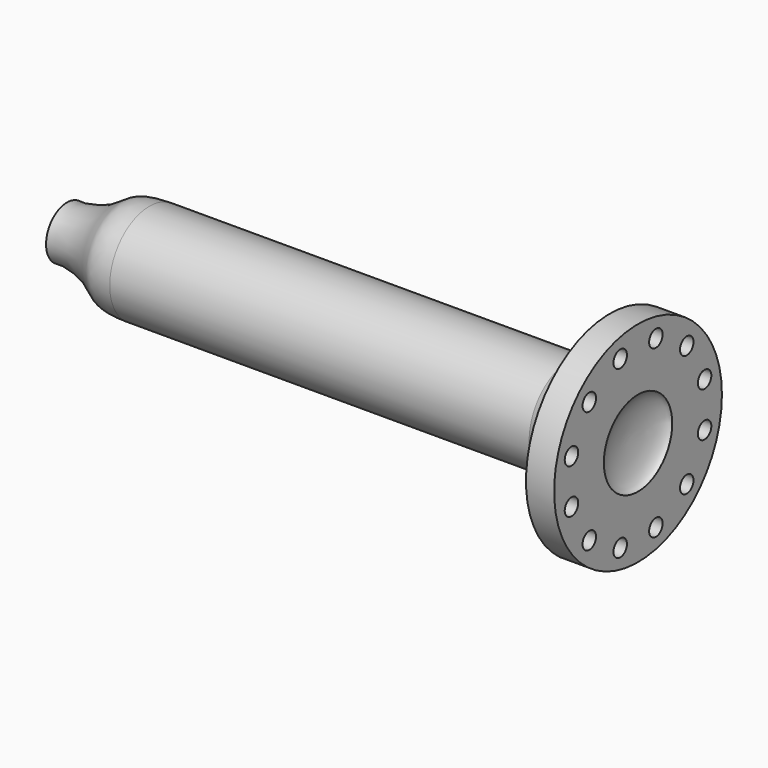
from build123d import *

# Parameters (mm, degrees)
F0_W     = 711.2
F0_H     = 84.1375
F2_W     = 44.45
F2_H     = 44.45
F3_DEPTH = 25.4
F4_R     = 14.2875
F5_DEPTH = 968.2490001


with BuildPart() as f1:
    # F0 (on Top) → F1 (revolve)
    with BuildSketch(Plane.XY):
        with BuildLine():
            Line((-355.6, -28.3585746473), (-355.6, 55.7789253527))
            add(Edge.make_bspline(
                [(-495.3, 16.0914253527), (-491.1825215885, 15.7318338139), (-479.4418370711, 14.7064851925), (-427.3573599541, 26.8287985997), (-400.0577825465, 54.9384491614), (-370.6219245107, 55.4949352575), (-355.6, 55.7789253527)],
                knots=[0, 0, 0, 0, 0.1628231526, 0.4642781518, 0.7266064691, 1, 1, 1, 1], degree=3))
            Line((-495.3, 16.0914253527), (-495.3, -28.3585746473))
            Line((-495.3, -28.3585746473), (-355.6, -28.3585746473))
        make_face()
        with Locations((0, 13.7101753527)):
            Rectangle(F0_W, F0_H)
        with BuildLine():
            Line((425.196, 82.7664253527), (355.6, 55.7789253527))
            Line((355.6, 55.7789253527), (355.6, -28.3585746473))
            Line((355.6, -28.3585746473), (451.6144843253, -28.3585746473))
            add(Edge.make_bspline(
                [(472.948, 44.1196709871), (451.6144843253, 44.1196709871), (451.6144843253, -28.3585746473)],
                knots=[0, 0, 0, 1.5707963268, 1.5707963268, 1.5707963268], degree=2, weights=[1, 0.7071067812, 1]))
            Line((472.948, 44.1196709871), (472.948, 149.4414253527))
            Line((472.948, 149.4414253527), (425.196, 149.4414253527))
            Line((425.196, 149.4414253527), (425.196, 82.7664253527))
        make_face()
    revolve(axis=Axis((-425.45, -28.3585746473, 0), (-1, 0, 0)))

    # F2 (on face) → F3 (cut)
    with BuildSketch(Plane(origin=(-495.3, 0, 0), x_dir=(0, -1, 0), z_dir=(-1, 0, 0))):
        with Locations((28.3585746473, 0)):
            Rectangle(F2_W, F2_H)
    extrude(amount=-F3_DEPTH, mode=Mode.SUBTRACT)

    # F4 (on face) → F5 (cut, through all)
    with BuildSketch(Plane.YZ.offset(472.948)):
        with Locations((-131.6315200396, 103.2729453923)):
            Circle(F4_R)
        with Locations((-66.1590961845, 141.0734669295)):
            Circle(F4_R)
        with Locations((9.4419468899, 141.0734669295)):
            Circle(F4_R)
        with Locations((74.914370745, 103.2729453923)):
            Circle(F4_R)
        with Locations((112.7148922822, 37.8005215372)):
            Circle(F4_R)
        with Locations((112.7148922822, -37.8005215372)):
            Circle(F4_R)
        with Locations((74.914370745, -103.2729453923)):
            Circle(F4_R)
        with Locations((9.4419468899, -141.0734669295)):
            Circle(F4_R)
        with Locations((-66.1590961845, -141.0734669295)):
            Circle(F4_R)
        with Locations((-131.6315200396, -103.2729453923)):
            Circle(F4_R)
        with Locations((-169.4320415768, -37.8005215372)):
            Circle(F4_R)
        with Locations((-169.4320415768, 37.8005215372)):
            Circle(F4_R)
    extrude(amount=-F5_DEPTH, mode=Mode.SUBTRACT)


solid = f1.part
